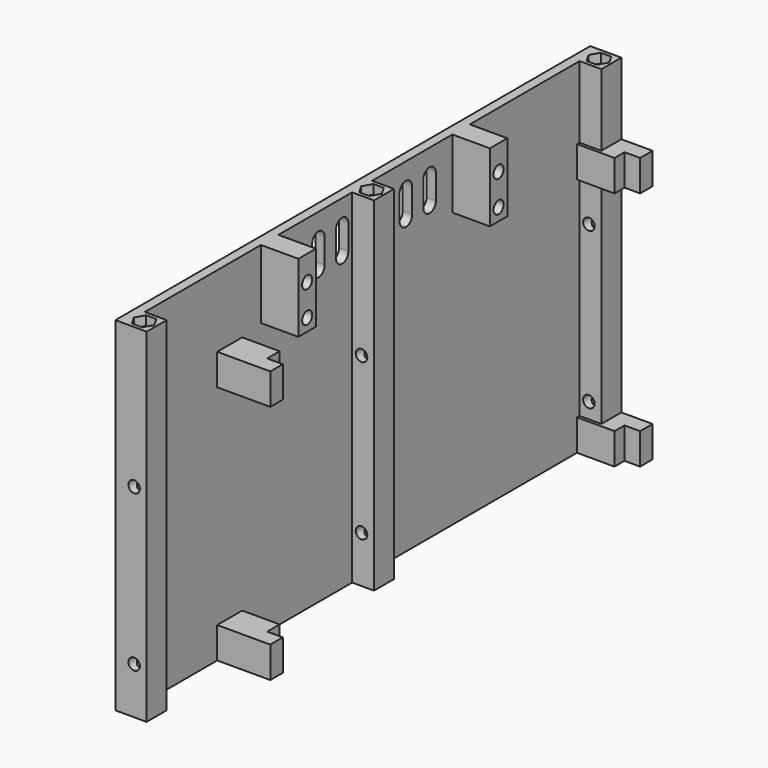
from build123d import *

# Parameters (mm, degrees)
SKETCH144_W            = 190
SKETCH144_H            = 110
PAD003_DEPTH           = 3
SKETCH145_W            = 7
SKETCH145_H            = 8
SKETCH145_R            = 1.8
PAD004_DEPTH           = 110
LINEARPATTERN_COUNT    = 3
LINEARPATTERN_PITCH    = 91
POCKET_DEPTH           = 3
LINEARPATTERN001_COUNT = 3
LINEARPATTERN001_PITCH = 91
PAD005_DEPTH           = 10
LINEARPATTERN002_COUNT = 2
LINEARPATTERN002_PITCH = 77
SKETCH150_W            = 12
SKETCH150_H            = 7
PAD008_DEPTH           = 22
SKETCH151_R            = 2
POCKET001_DEPTH        = 17.001
POCKET001_DEPTH_BACK   = 3.001
POCKET002_DEPTH        = 3
LINEARPATTERN003_COUNT = 3
LINEARPATTERN003_PITCH = 91
POCKET003_DEPTH        = 20.001
LINEARPATTERN004_COUNT = 3
LINEARPATTERN004_PITCH = 9.5
SKETCH155_R            = 1.85
POCKET005_DEPTH        = 190.001


with BuildPart() as obj1:
    # Sketch144 → Pad003 (new body)
    with BuildSketch(Plane.YZ):
        with Locations((-5, 55)):
            Rectangle(SKETCH144_W, SKETCH144_H)
    extrude(amount=PAD003_DEPTH)

    # Sketch145 → Pad004 (join)
    with BuildSketch(Plane.XY):
        with Locations((-3.5, 86)):
            Rectangle(SKETCH145_W, SKETCH145_H)
        with Locations((-3, 86)):
            Circle(SKETCH145_R, mode=Mode.SUBTRACT)
    pad004 = extrude(amount=PAD004_DEPTH)

    # LinearPattern: Pad004 ×3
    with Locations(*[(0, -i * LINEARPATTERN_PITCH, 0) for i in range(1, LINEARPATTERN_COUNT)]):
        add(pad004)

    # Sketch146 → Pocket (cut)
    with BuildSketch(Plane(origin=(-3, 0, 0), x_dir=(-1, 0, 0), z_dir=(0, 0, -1))):
        Polygon((1.645448, 83.15), (3.290897, 86), (1.645448, 88.85), (-1.645448, 88.85), (-3.290897, 86), (-1.645448, 83.15), align=None)
    pocket = extrude(amount=-POCKET_DEPTH, mode=Mode.SUBTRACT)

    # LinearPattern001: Pocket ×3
    with Locations(*[(0, -i * LINEARPATTERN001_PITCH, 0) for i in range(1, LINEARPATTERN001_COUNT)]):
        add(pocket, mode=Mode.SUBTRACT)

    # Sketch147 → Pad005 (join)
    with BuildSketch(Plane.XY):
        Polygon((-17, 85), (-12, 85), (-12, 81), (0, 81), (0, 82), (-7, 82), (-7, 90), (-17, 90), align=None)
        Polygon((0, -53), (-12, -53), (-12, -58), (-17, -58), (-17, -63), (0, -63), align=None)
    pad005 = extrude(amount=PAD005_DEPTH)

    # LinearPattern002: Pad005 ×2
    with Locations(*[(0, 0, i * LINEARPATTERN002_PITCH) for i in range(1, LINEARPATTERN002_COUNT)]):
        add(pad005)

    # Sketch150 → Pad008 (join)
    with BuildSketch(Plane.XY.offset(110)):
        with Locations((-6, -42)):
            Rectangle(SKETCH150_W, SKETCH150_H)
        with Locations((-6, 34.6)):
            Rectangle(SKETCH150_W, SKETCH150_H)
    extrude(amount=-PAD008_DEPTH)

    # Sketch151 → Pocket001 (cut, two sides)
    with BuildSketch(Plane.YZ) as pocket001_sk:
        with Locations((-42, 92)):
            Circle(SKETCH151_R)
        with Locations((34.6, 92)):
            Circle(SKETCH151_R)
        with Locations((-42, 102)):
            Circle(SKETCH151_R)
        with Locations((34.6, 102)):
            Circle(SKETCH151_R)
    extrude(amount=-POCKET001_DEPTH, mode=Mode.SUBTRACT)
    extrude(pocket001_sk.sketch, amount=POCKET001_DEPTH_BACK, mode=Mode.SUBTRACT)

    # Sketch152 → Pocket002 (cut)
    with BuildSketch(Plane.XY.offset(110)):
        Polygon((-4.645448, 83.15), (-1.354552, 83.15), (0.290897, 86), (-1.354552, 88.85), (-4.645448, 88.85), (-6.290897, 86), align=None)
    pocket002 = extrude(amount=-POCKET002_DEPTH, mode=Mode.SUBTRACT)

    # LinearPattern003: Pocket002 ×3
    with Locations(*[(0, -i * LINEARPATTERN003_PITCH, 0) for i in range(1, LINEARPATTERN003_COUNT)]):
        add(pocket002, mode=Mode.SUBTRACT)

    # Sketch153 → Pocket003 (cut, through all)
    with BuildSketch(Plane.YZ.offset(3)):
        with BuildLine():
            ThreePointArc((-29.5, 102), (-32, 104.5), (-34.5, 102))
            Line((-34.5, 102), (-34.5, 94))
            ThreePointArc((-34.5, 94), (-32, 91.5), (-29.5, 94))
            Line((-29.5, 102), (-29.5, 94))
        make_face()
        with BuildLine():
            ThreePointArc((5.5, 102), (3, 104.5), (0.5, 102))
            Line((0.5, 102), (0.5, 94))
            ThreePointArc((0.5, 94), (3, 91.5), (5.5, 94))
            Line((5.5, 102), (5.5, 94))
        make_face()
    pocket003 = extrude(amount=-POCKET003_DEPTH, mode=Mode.SUBTRACT)

    # LinearPattern004: Pocket003 ×3
    with Locations(*[(0, i * LINEARPATTERN004_PITCH, 0) for i in range(1, LINEARPATTERN004_COUNT)]):
        add(pocket003, mode=Mode.SUBTRACT)

    # Sketch155 → Pocket005 (cut, through all)
    with BuildSketch(Plane.XZ.offset(100)):
        with Locations((-3, 15)):
            Circle(SKETCH155_R)
        with Locations((-3, 65)):
            Circle(SKETCH155_R)
    extrude(amount=-POCKET005_DEPTH, mode=Mode.SUBTRACT)


with BuildPart() as obj1_1:
    # Body002 placement: moved
    add(obj1.part.moved(Location((88, 0, 8))))


with BuildPart() as obj1_mirrored:
    # mirror: instance of obj1
    add(obj1_1.part.mirror(Plane(origin=(0, 0, 0), x_dir=(0, -1, 0), z_dir=(1, 0, 0))))


solid = obj1_mirrored.part
